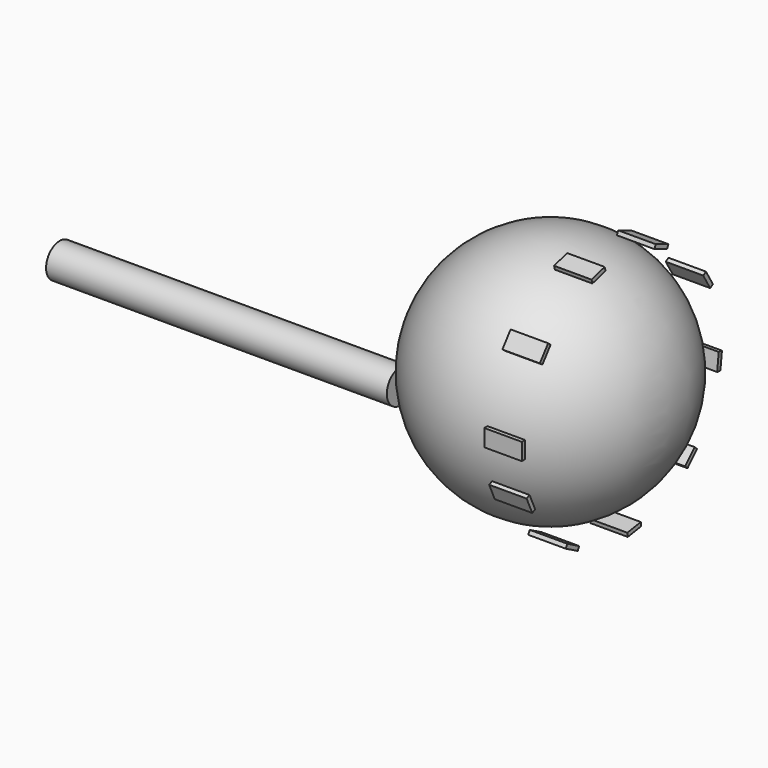
from build123d import *

# Parameters (mm, degrees)
F3_R     = 0.5
F4_DEPTH = 10
F8_W     = 0.118814
F8_H     = 0.499018
F9_DEPTH = 1.1


with BuildPart() as f1:
    # F0 (on Front) → F1 (revolve)
    with BuildSketch(Plane.XZ):
        with BuildLine():
            ThreePointArc((0, 28.505525), (3.550359, 32.055884), (0, 35.606243))
            Line((0, 35.606243), (0, 28.505525))
        make_face()
    revolve(axis=Axis((0, 0, 32.055884), (0, 0, -1)))


with BuildPart() as f4:
    # F3 (on offset) → F4 (new body)
    with BuildSketch(Plane.YZ.offset(-4.4)):
        with Locations((0, 30.259646)):
            Circle(F3_R)
    extrude(amount=-F4_DEPTH)


with BuildPart() as f9:
    # F8 (on offset) → F9 (new body)
    with BuildSketch(Plane.YZ.offset(2.1)):
        with Locations((-3.615286, 32.175526)):
            Rectangle(F8_W, F8_H)
        Polygon((-2.614079, 34.507953), (-2.708583, 34.579967), (-3.01104, 34.183056), (-2.916536, 34.111043), align=None)
        Polygon((-0.60252, 35.593847), (-0.634038, 35.708404), (-1.115178, 35.576028), (-1.083659, 35.46147), align=None)
        Polygon((1.655609, 35.238334), (1.699974, 35.348555), (1.237049, 35.534885), (1.192684, 35.424664), align=None)
        Polygon((3.236213, 33.586902), (3.338305, 33.64768), (3.083037, 34.076466), (2.980945, 34.015687), align=None)
        Polygon((3.49246, 31.315366), (3.610501, 31.30183), (3.667354, 31.797598), (3.549313, 31.811135), align=None)
        Polygon((2.319487, 29.353309), (2.40517, 29.270997), (2.750878, 29.630865), (2.665194, 29.713177), align=None)
        Polygon((0.19731, 28.503662), (0.215571, 28.38626), (0.708659, 28.462958), (0.690398, 28.580361), align=None)
        Polygon((-2.005613, 29.114128), (-2.062246, 29.00968), (-1.623564, 28.771821), (-1.566931, 28.87627), align=None)
        Polygon((-3.387778, 30.934885), (-3.49613, 30.886134), (-3.291376, 30.431058), (-3.183024, 30.479809), align=None)
    extrude(amount=-F9_DEPTH)


solid = Compound([f1.part, f4.part, f9.part])
